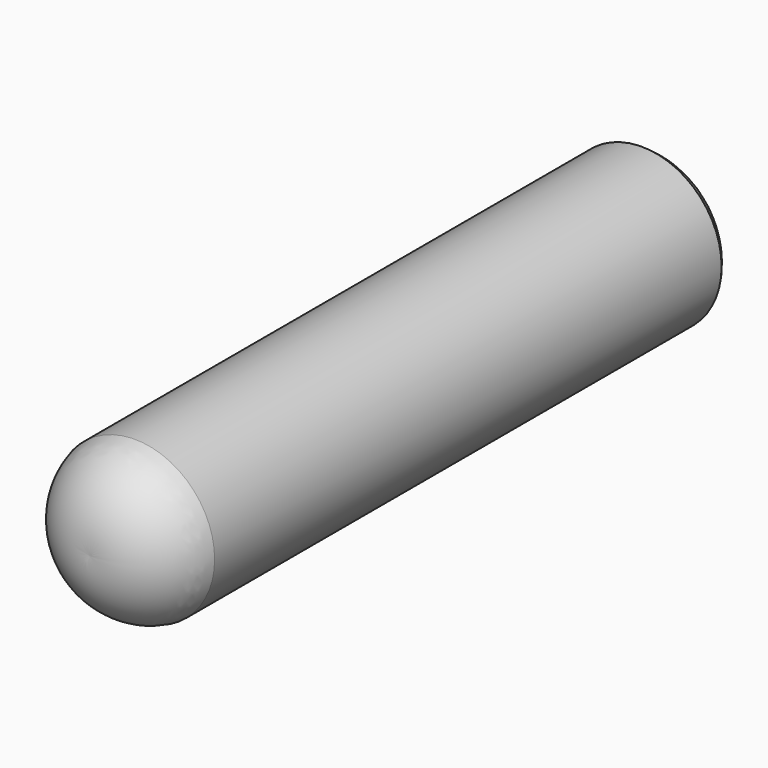
from build123d import *


with BuildPart() as f1:
    # F0 (on Top) → F1 (revolve)
    with BuildSketch(Plane.XY):
        with BuildLine():
            Line((0, 8.73125), (0, 0))
            ThreePointArc((0, 0), (0.613467, 0.160668), (0.966489, 0.68748))
            Line((0.966489, 0.68748), (0.966489, 8.371749))
            ThreePointArc((0.966489, 8.371749), (0.541624, 8.708448), (0, 8.73125))
        make_face()
    revolve(axis=Axis((0, 4.365625, 0), (0, 1, 0)))


solid = f1.part
